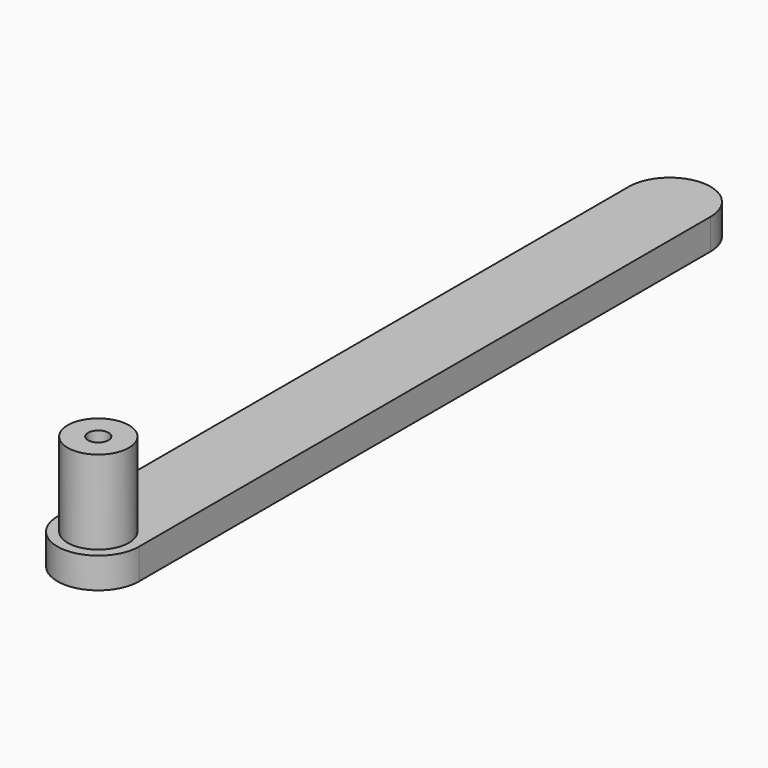
from build123d import *

# Parameters (mm, degrees)
F1_DEPTH = 3.81
F2_R     = 3.81
F3_DEPTH = 10.414
F5_D     = 2.54
F5_DEPTH = 12.7
F5_TIP   = 0.7630929862


with BuildPart() as f1:
    # F0 (on Top) → F1 (new body)
    with BuildSketch(Plane.XY):
        with BuildLine():
            Line((0, 93.98), (0, 5.08))
            ThreePointArc((0, 5.08), (5.08, 0), (10.16, 5.08))
            Line((10.16, 5.08), (10.16, 93.98))
            ThreePointArc((10.16, 93.98), (5.08, 99.06), (0, 93.98))
        make_face()
    extrude(amount=F1_DEPTH)

    # F2 (on face) → F3 (join)
    with BuildSketch(Plane.XY.offset(3.81)):
        with Locations((5.08, 5.08)):
            Circle(F2_R)
    extrude(amount=F3_DEPTH)

    # F5
    with Locations(Plane.XY.offset(14.224)):
        with Locations((5.08, 5.08)):
            Hole(F5_D / 2, depth=F5_DEPTH)
            with Locations((0, 0, -(F5_DEPTH + F5_TIP / 2))):  # 118° drill point
                Cone(0, F5_D / 2, F5_TIP, mode=Mode.SUBTRACT)


solid = f1.part
